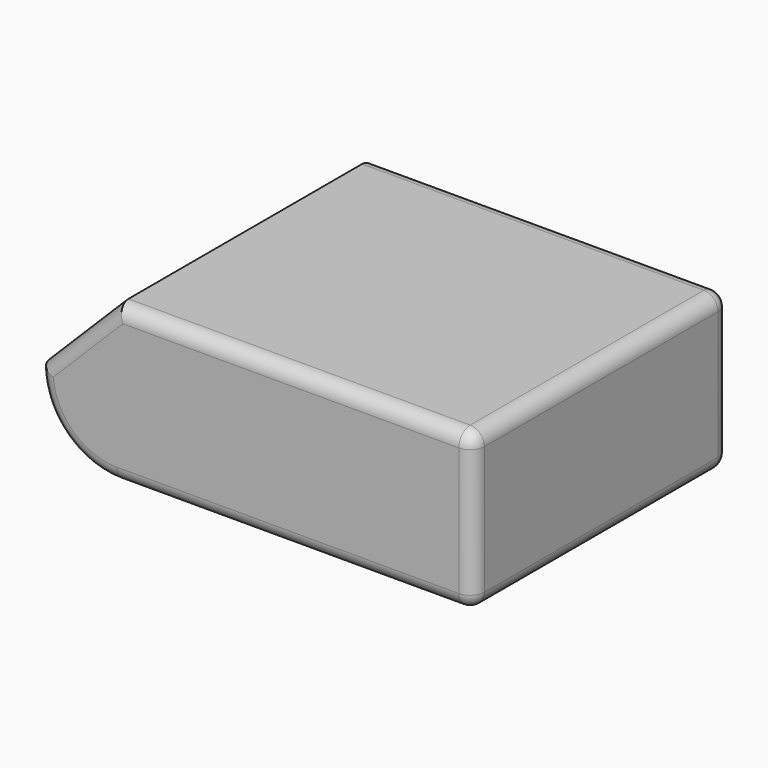
from build123d import *

# Parameters (mm, degrees)
F1_DEPTH = 45
F2_R     = 2


with BuildPart() as f1:
    # F0 (on Front) → F1 (new body)
    with BuildSketch(Plane.XZ):
        with BuildLine():
            Line((25, 11), (-25, 11))
            ThreePointArc((-25, 11), (-17.221825, 7.778175), (-14, 0))
            ThreePointArc((-14, 0), (-17.221825, -7.778175), (-25, -11))
            Line((-25, -11), (25, -11))
            Line((25, -11), (25, 11))
        make_face()
        with BuildLine():
            Line((-25, -11), (-25, 11))
            Line((-25, 11), (-36, 0))
            ThreePointArc((-36, 0), (-32.778175, -7.778175), (-25, -11))
        make_face()
        with BuildLine():
            ThreePointArc((-14, 0), (-17.221825, 7.778175), (-25, 11))
            Line((-25, 11), (-25, -11))
            ThreePointArc((-25, -11), (-17.221825, -7.778175), (-14, 0))
        make_face()
    extrude(amount=F1_DEPTH)

    # F2
    f2_edges = [f1.edges().sort_by_distance(p)[0] for p in [
        (0, -45, -11),
        (25, -45, 0),
        (0, -45, 11),
        (-30.5, -45, 5.5),
        (-32.778175, -45, -7.778175),
        (0, 0, -11),
        (25, 0, 0),
        (0, 0, 11),
        (-30.5, 0, 5.5),
        (-32.778175, 0, -7.778175),
        (25, -22.5, -11),
        (25, -22.5, 11),
    ]]
    fillet(f2_edges, radius=F2_R)


solid = f1.part
